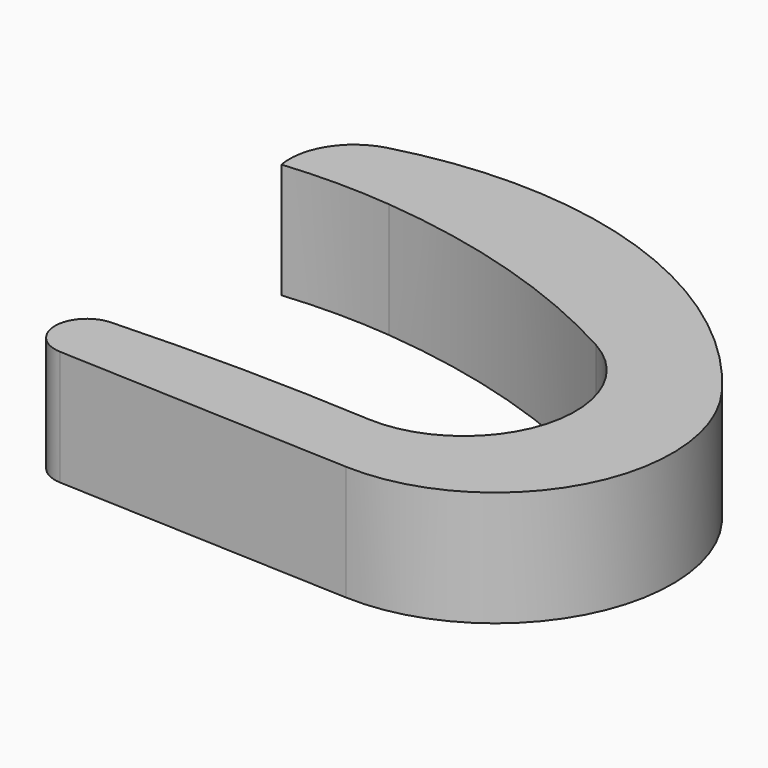
from build123d import *

# Parameters (mm, degrees)
F1_DEPTH = 25.4


with BuildPart() as f1:
    # F0 (on Top) → F1 (new body)
    with BuildSketch(Plane.XY):
        with BuildLine():
            ThreePointArc((-70.498198, -6.531452), (-77.23157, -13.552243), (-70.498198, -20.573033))
            Line((-70.498198, -20.573033), (-5.17369, -23.304377))
            ThreePointArc((-5.17369, -23.304377), (31.012428, -2.514447), (27.793128, 39.094355))
            ThreePointArc((27.793128, 39.094355), (-17.772641, 72.332128), (-74.147478, 74.025221))
            ThreePointArc((-74.147478, 74.025221), (-82.393321, 67.891011), (-84.356017, 57.802886))
            ThreePointArc((-84.356017, 57.802886), (-72.487462, 58.362916), (-60.618907, 57.802886))
            ThreePointArc((-60.618907, 57.802886), (-29.347038, 51.567014), (0, 39.094355))
            ThreePointArc((0, 39.094355), (11.746524, 10.713533), (-13.336413, -7.014925))
            ThreePointArc((-13.336413, -7.014925), (-41.911231, -6.055009), (-70.498198, -6.531452))
        make_face()
    extrude(amount=F1_DEPTH)


solid = f1.part
